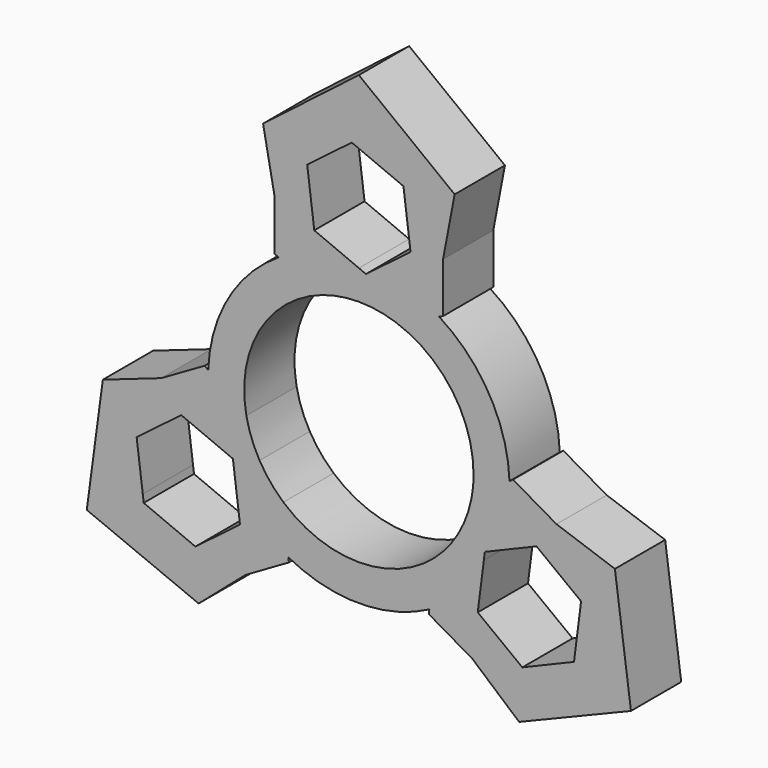
from build123d import *

# Parameters (mm, degrees)
F1_DEPTH = 6


with BuildPart() as f1:
    # F0 (on Front) → F1 (new body)
    with BuildSketch(Plane.XZ):
        with BuildLine():
            ThreePointArc((-10.743231, -2.117897), (-9.482978, 5.475), (-3.537462, 10.36286))
            Line((-3.537462, 10.36286), (-7.660854, 12.187504))
            ThreePointArc((-7.660854, 12.187504), (-12.466674, 7.197638), (-14.385115, 0.540742))
            Line((-14.385115, 0.540742), (-10.743231, -2.117897))
        make_face()
        with BuildLine():
            ThreePointArc((-9.482978, -5.475), (-10.251459, -3.848387), (-10.743231, -2.117897))
            Line((-10.743231, -2.117897), (-14.385115, 0.540742))
            Line((-14.385115, 0.540742), (-14.720386, 0.785496))
            Line((-14.720386, 0.785496), (-18.868808, -1.609597))
            Line((-18.868808, -1.609597), (-24.447452, -3.553989))
            Line((-24.447452, -3.553989), (-25.980762, -15))
            Line((-25.980762, -15), (-20.635515, -11.91392))
            Line((-20.635515, -11.91392), (-21.219079, -7.334182))
            Line((-21.219079, -7.334182), (-16.961128, -4.094992))
            Line((-16.961128, -4.094992), (-12.026931, -6.162892))
            Line((-12.026931, -6.162892), (-11.93425, -6.890243))
            Line((-11.93425, -6.890243), (-9.482978, -5.475))
        make_face()
        with BuildLine():
            ThreePointArc((-7.205768, -8.244962), (-8.458531, -6.953831), (-9.482978, -5.475))
            Line((-9.482978, -5.475), (-11.93425, -6.890243))
            Line((-11.93425, -6.890243), (-11.350686, -11.469981))
            Line((-11.350686, -11.469981), (-15.608638, -14.70917))
            Line((-15.608638, -14.70917), (-20.542834, -12.641271))
            Line((-20.542834, -12.641271), (-20.635515, -11.91392))
            Line((-20.635515, -11.91392), (-25.980762, -15))
            Line((-25.980762, -15), (-15.301571, -19.39512))
            Line((-15.301571, -19.39512), (-10.828356, -15.536069))
            Line((-10.828356, -15.536069), (-6.679934, -13.140976))
            Line((-6.679934, -13.140976), (-6.724261, -12.728246))
            Line((-6.724261, -12.728246), (-7.205768, -8.244962))
        make_face()
        with BuildLine():
            Line((6.724261, -12.728246), (7.205768, -8.244962))
            ThreePointArc((7.205768, -8.244962), (0, -10.95), (-7.205768, -8.244962))
            Line((-7.205768, -8.244962), (-6.724261, -12.728246))
            ThreePointArc((-6.724261, -12.728246), (0, -14.395275), (6.724261, -12.728246))
        make_face()
        with BuildLine():
            Line((11.93425, -6.890243), (9.482978, -5.475))
            ThreePointArc((9.482978, -5.475), (8.458531, -6.953831), (7.205768, -8.244962))
            Line((7.205768, -8.244962), (6.724261, -12.728246))
            Line((6.724261, -12.728246), (6.679934, -13.140976))
            Line((6.679934, -13.140976), (10.828356, -15.536069))
            Line((10.828356, -15.536069), (15.301571, -19.39512))
            Line((15.301571, -19.39512), (25.980762, -15))
            Line((25.980762, -15), (20.635515, -11.91392))
            Line((20.635515, -11.91392), (20.542834, -12.641271))
            Line((20.542834, -12.641271), (15.608638, -14.70917))
            Line((15.608638, -14.70917), (11.350686, -11.469981))
            Line((11.350686, -11.469981), (11.93425, -6.890243))
        make_face()
        with BuildLine():
            Line((14.385115, 0.540742), (10.743231, -2.117897))
            ThreePointArc((10.743231, -2.117897), (10.251459, -3.848387), (9.482978, -5.475))
            Line((9.482978, -5.475), (11.93425, -6.890243))
            Line((11.93425, -6.890243), (12.026931, -6.162892))
            Line((12.026931, -6.162892), (16.961128, -4.094992))
            Line((16.961128, -4.094992), (21.219079, -7.334182))
            Line((21.219079, -7.334182), (20.635515, -11.91392))
            Line((20.635515, -11.91392), (25.980762, -15))
            Line((25.980762, -15), (24.447452, -3.553989))
            Line((24.447452, -3.553989), (18.868808, -1.609597))
            Line((18.868808, -1.609597), (14.720386, 0.785496))
            Line((14.720386, 0.785496), (14.385115, 0.540742))
        make_face()
        with BuildLine():
            ThreePointArc((3.537462, 10.36286), (8.906113, 6.370529), (10.95, 0))
            ThreePointArc((10.95, 0), (10.898185, -1.063983), (10.743231, -2.117897))
            Line((10.743231, -2.117897), (14.385115, 0.540742))
            ThreePointArc((14.385115, 0.540742), (12.466674, 7.197638), (7.660854, 12.187504))
            Line((7.660854, 12.187504), (3.537462, 10.36286))
        make_face()
        with BuildLine():
            ThreePointArc((0, 10.95), (1.792929, 10.802218), (3.537462, 10.36286))
            Line((3.537462, 10.36286), (7.660854, 12.187504))
            Line((7.660854, 12.187504), (8.040452, 12.35548))
            Line((8.040452, 12.35548), (8.040452, 17.145665))
            Line((8.040452, 17.145665), (9.145881, 22.949109))
            Line((9.145881, 22.949109), (0, 30))
            Line((0, 30), (0, 23.82784))
            Line((0, 23.82784), (4.257951, 22.043353))
            Line((4.257951, 22.043353), (4.934196, 16.736264))
            Line((4.934196, 16.736264), (0.676245, 13.497074))
            Line((0.676245, 13.497074), (0, 13.780485))
            Line((0, 13.780485), (0, 10.95))
        make_face()
        with BuildLine():
            ThreePointArc((-3.537462, 10.36286), (-1.792929, 10.802218), (0, 10.95))
            Line((0, 10.95), (0, 13.780485))
            Line((0, 13.780485), (-4.257951, 15.564973))
            Line((-4.257951, 15.564973), (-4.934196, 20.872062))
            Line((-4.934196, 20.872062), (-0.676245, 24.111252))
            Line((-0.676245, 24.111252), (0, 23.82784))
            Line((0, 23.82784), (0, 30))
            Line((0, 30), (-9.145881, 22.949109))
            Line((-9.145881, 22.949109), (-8.040452, 17.145665))
            Line((-8.040452, 17.145665), (-8.040452, 12.35548))
            Line((-8.040452, 12.35548), (-7.660854, 12.187504))
            Line((-7.660854, 12.187504), (-3.537462, 10.36286))
        make_face()
    extrude(amount=F1_DEPTH)


solid = f1.part
